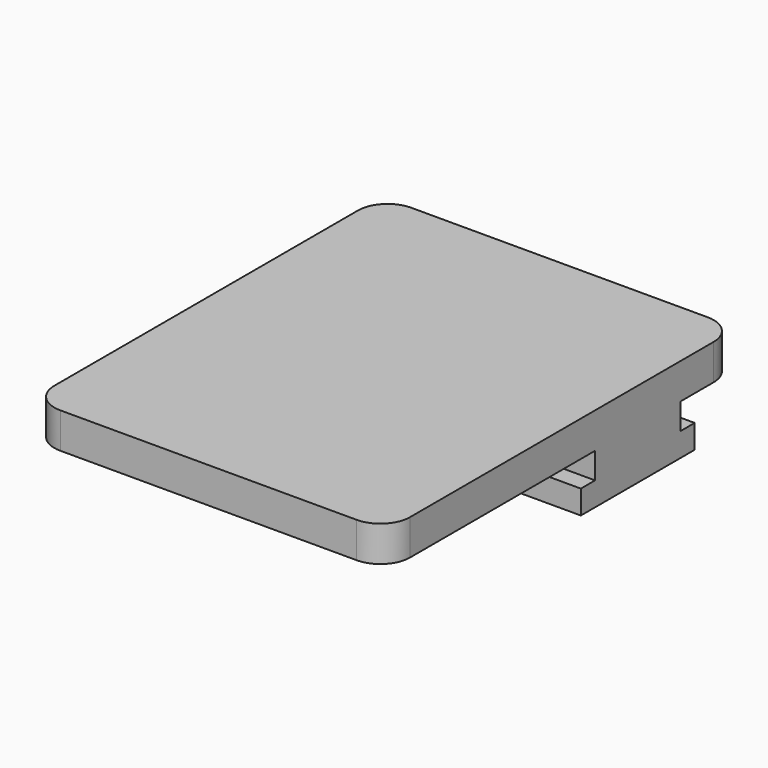
from build123d import *

# Parameters (mm, degrees)
F0_W     = 30
F0_H     = 12
F1_DEPTH = 2
F2_W     = 30
F2_H     = 9
F3_DEPTH = 2.2
F4_W     = 30
F4_H     = 22
F4_H_2   = 9
F4_H_3   = 6
F5_DEPTH = 3
F6_R     = 2.5


with BuildPart() as f1:
    # F0 (on Top) → F1 (new body)
    with BuildSketch(Plane.XY):
        with Locations((15, -6)):
            Rectangle(F0_W, F0_H)
    extrude(amount=F1_DEPTH)

    # F2 (on face) → F3 (join)
    with BuildSketch(Plane.XY.offset(2)):
        with Locations((15, -6)):
            Rectangle(F2_W, F2_H)
    extrude(amount=F3_DEPTH)

    # F4 (on face) → F5 (join)
    with BuildSketch(Plane.XY.offset(4.2)):
        with Locations((15, -21.5)):
            Rectangle(F4_W, F4_H)
        with Locations((15, -6)):
            Rectangle(F4_W, F4_H_2)
        with Locations((15, 1.5)):
            Rectangle(F4_W, F4_H_3)
    extrude(amount=F5_DEPTH)

    # F6
    f6_edges = [f1.edges().sort_by_distance(p)[0] for p in [
        (0, -32.5, 5.7),
        (30, -32.5, 5.7),
        (30, 4.5, 5.7),
        (0, 4.5, 5.7),
    ]]
    fillet(f6_edges, radius=F6_R)


solid = f1.part
